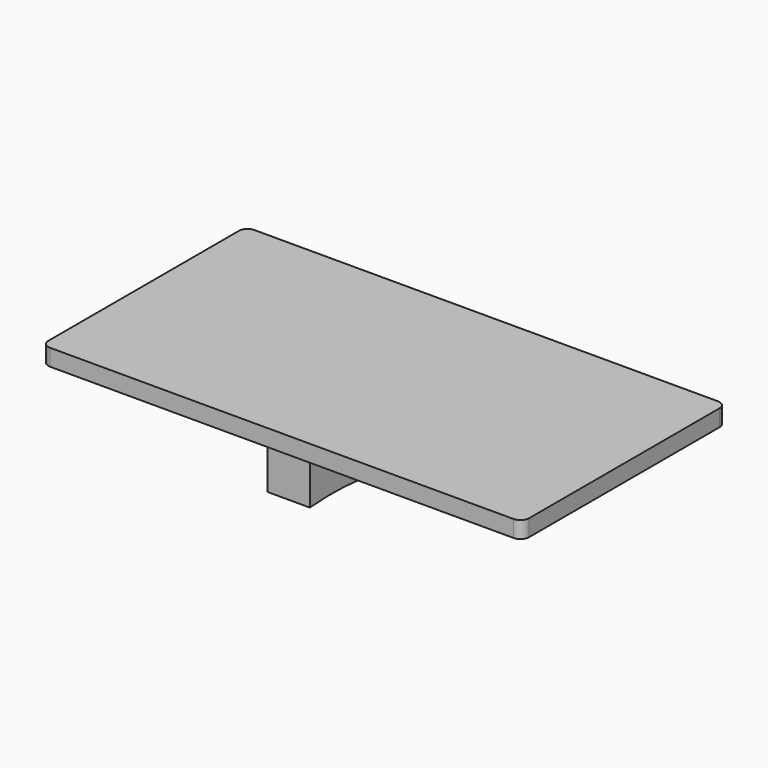
from build123d import *

# Parameters (mm, degrees)
F0_W     = 287.692204
F0_H     = 152.760788
F1_DEPTH = 10
F2_R     = 5.08
F4_DEPTH = 12.7


with BuildPart() as f1:
    # F0 (on Top) → F1 (new body)
    with BuildSketch(Plane.XY):
        Rectangle(F0_W, F0_H)
    extrude(amount=F1_DEPTH)

    # F2
    f2_edges = [f1.edges().sort_by_distance(p)[0] for p in [
        (143.846102, -76.380394, 5),
        (-143.846102, 76.380394, 5),
        (-143.846102, -76.380394, 5),
        (143.846102, 76.380394, 5),
    ]]
    fillet(f2_edges, radius=F2_R)

    # F3 (on Right) → F4 (join, symmetric)
    with BuildSketch(Plane.YZ):
        with BuildLine():
            Line((76.528475, 0), (0, 0))
            Line((0, 0), (-71.380883, 0))
            Line((-71.380883, 0), (-71.380883, -26.993327))
            ThreePointArc((-71.380883, -26.993327), (-7.032306, -32.181445), (52.20481, -57.845037))
            Line((52.20481, -57.845037), (76.528475, -57.845037))
            Line((76.528475, -57.845037), (76.528475, 0))
        make_face()
    extrude(amount=F4_DEPTH, both=True)


solid = f1.part
